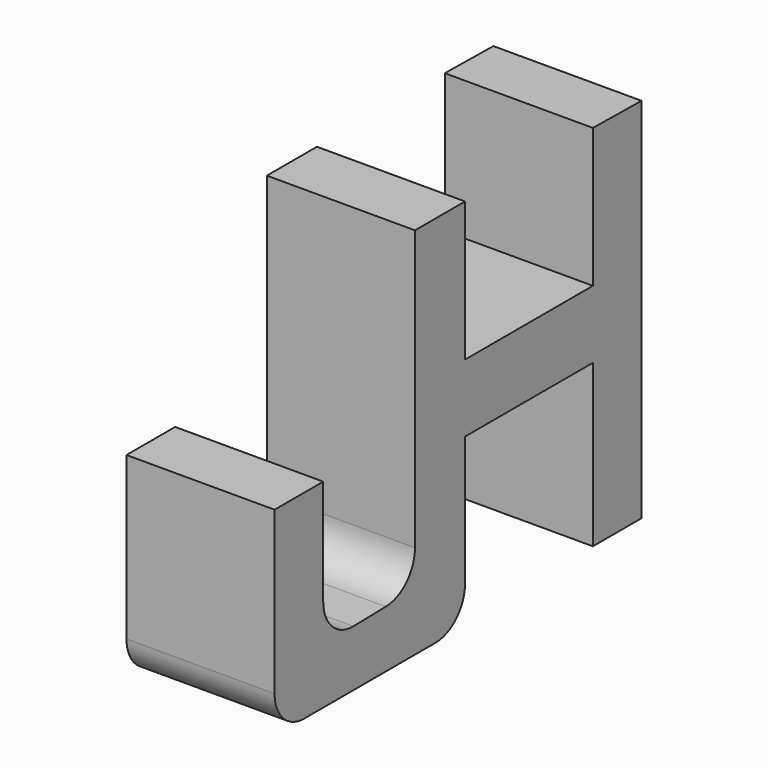
from build123d import *

# Parameters (mm, degrees)
F1_DEPTH = 25.4
F2_DEPTH = 25.4


with BuildPart() as f1:
    # F0 (on Right) → F1 (new body)
    with BuildSketch(Plane.YZ):
        with BuildLine():
            Line((-14.303464, 29.947877), (-25.031062, 29.947877))
            Line((-25.031062, 29.947877), (-25.031062, -17.982534))
            ThreePointArc((-25.031062, -17.982534), (-26.847973, -22.429287), (-31.258969, -24.331361))
            Line((-31.258969, -24.331361), (-38.226231, -24.465346))
            ThreePointArc((-38.226231, -24.465346), (-42.795076, -22.649609), (-44.698324, -18.11652))
            Line((-44.698324, -18.11652), (-44.698324, 0))
            Line((-44.698324, 0), (-55.127934, 0))
            Line((-55.127934, 0), (-55.127934, -27.769722))
            ThreePointArc((-55.127934, -27.769722), (-53.268062, -32.25985), (-48.777934, -34.119722))
            Line((-48.777934, -34.119722), (-20.653464, -34.119722))
            ThreePointArc((-20.653464, -34.119722), (-16.163336, -32.25985), (-14.303464, -27.769722))
            Line((-14.303464, -27.769722), (-14.303464, -5.553384))
            Line((-14.303464, -5.553384), (-14.303464, 6.06818))
            Line((-14.303464, 6.06818), (-14.303464, 29.947877))
        make_face()
    extrude(amount=F1_DEPTH)

    # F0 (on Right) → F2 (join)
    with BuildSketch(Plane.YZ):
        with BuildLine():
            Line((-14.303464, 29.947877), (-25.031062, 29.947877))
            Line((-25.031062, 29.947877), (-25.031062, -17.982534))
            ThreePointArc((-25.031062, -17.982534), (-26.847973, -22.429287), (-31.258969, -24.331361))
            Line((-31.258969, -24.331361), (-38.226231, -24.465346))
            ThreePointArc((-38.226231, -24.465346), (-42.795076, -22.649609), (-44.698324, -18.11652))
            Line((-44.698324, -18.11652), (-44.698324, 0))
            Line((-44.698324, 0), (-55.127934, 0))
            Line((-55.127934, 0), (-55.127934, -27.769722))
            ThreePointArc((-55.127934, -27.769722), (-53.268062, -32.25985), (-48.777934, -34.119722))
            Line((-48.777934, -34.119722), (-20.653464, -34.119722))
            ThreePointArc((-20.653464, -34.119722), (-16.163336, -32.25985), (-14.303464, -27.769722))
            Line((-14.303464, -27.769722), (-14.303464, -5.553384))
            Line((-14.303464, -5.553384), (-14.303464, 6.06818))
            Line((-14.303464, 6.06818), (-14.303464, 29.947877))
        make_face()
        Polygon((13.111508, 6.06818), (-14.303464, 6.06818), (-14.303464, -5.553384), (13.111508, -5.553384), (13.111508, -33.266351), (23.535079, -33.266351), (23.535079, 29.764499), (13.111508, 29.907288), align=None)
    extrude(amount=F2_DEPTH)


solid = f1.part
